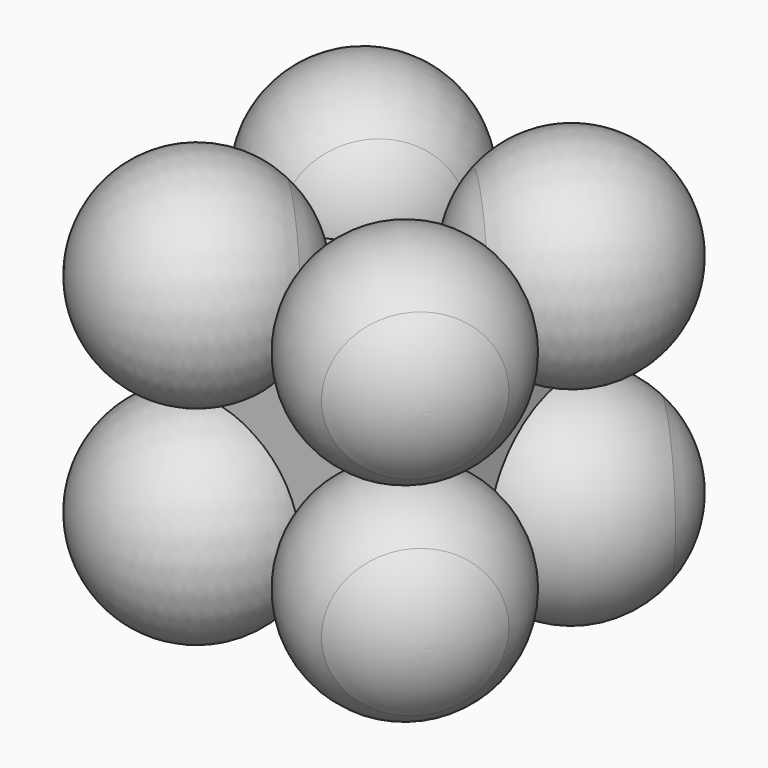
from build123d import *

# Parameters (mm, degrees)
F0_W          = 10
F0_H          = 10
F1_DEPTH      = 5
F1_DEPTH_BACK = 5


with BuildPart() as f1:
    # F0 (on Top) → F1 (new body, two sides)
    with BuildSketch(Plane.XY) as f1_sk:
        Rectangle(F0_W, F0_H)
    extrude(amount=F1_DEPTH)
    extrude(f1_sk.sketch, amount=-F1_DEPTH_BACK)


with BuildPart() as f3:
    # F2 (on face) → F3 (revolve)
    with BuildSketch(Plane.XY.offset(5)):
        with BuildLine():
            Line((5, 5), (0, 5))
            ThreePointArc((0, 5), (0.380602, 3.086583), (1.464466, 1.464466))
            Line((1.464466, 1.464466), (5, 5))
        make_face()
        with BuildLine():
            Line((5, 5), (8.535534, 8.535534))
            ThreePointArc((8.535534, 8.535534), (3.086583, 9.619398), (0, 5))
            Line((0, 5), (5, 5))
        make_face()
    revolve(axis=Axis((4.267767, 4.267767, 5), (0.707107, 0.707107, 0)))


with BuildPart() as f4:
    # F2 (on face) → F4 (revolve)
    with BuildSketch(Plane.XY.offset(5)):
        with BuildLine():
            Line((-5, 5), (0, 5))
            ThreePointArc((0, 5), (-3.086583, 9.619398), (-8.535534, 8.535534))
            Line((-8.535534, 8.535534), (-5, 5))
        make_face()
        with BuildLine():
            ThreePointArc((-1.464466, 1.464466), (-0.380602, 3.086583), (0, 5))
            Line((0, 5), (-5, 5))
            Line((-5, 5), (-1.464466, 1.464466))
        make_face()
    revolve(axis=Axis((-4.267767, 4.267767, 5), (-0.707107, 0.707107, 0)))


with BuildPart() as f5:
    # F2 (on face) → F5 (revolve)
    with BuildSketch(Plane.XY.offset(5)):
        with BuildLine():
            ThreePointArc((-1.464466, -1.464466), (-3.086583, -0.380602), (-5, 0))
            Line((-5, 0), (-5, -5))
            Line((-5, -5), (-1.464466, -1.464466))
        make_face()
        with BuildLine():
            Line((-5, -5), (-5, 0))
            ThreePointArc((-5, 0), (-9.619398, -3.086583), (-8.535534, -8.535534))
            Line((-8.535534, -8.535534), (-5, -5))
        make_face()
    revolve(axis=Axis((-4.267767, -4.267767, 5), (-0.707107, -0.707107, 0)))


with BuildPart() as f6:
    # F2 (on face) → F6 (revolve)
    with BuildSketch(Plane.XY.offset(5)):
        with BuildLine():
            Line((5, -5), (5, 0))
            ThreePointArc((5, 0), (3.086583, -0.380602), (1.464466, -1.464466))
            Line((1.464466, -1.464466), (5, -5))
        make_face()
        with BuildLine():
            ThreePointArc((10, -5), (8.535534, -1.464466), (5, 0))
            Line((5, 0), (5, -5))
            Line((5, -5), (8.535534, -8.535534))
            ThreePointArc((8.535534, -8.535534), (9.619398, -6.913417), (10, -5))
        make_face()
    revolve(axis=Axis((4.267767, -4.267767, 5), (0.707107, -0.707107, 0)))


with BuildPart() as f8:
    # F7 (on face) → F8 (revolve)
    with BuildSketch(Plane(origin=(0, 0, -5), x_dir=(1, 0, 0), z_dir=(0, 0, -1))):
        with BuildLine():
            Line((-5, 5), (-8.535534, 8.535534))
            ThreePointArc((-8.535534, 8.535534), (-9.619398, 3.086583), (-5, 0))
            Line((-5, 0), (-5, 5))
        make_face()
        with BuildLine():
            ThreePointArc((-5, 0), (-3.086583, 0.380602), (-1.464466, 1.464466))
            Line((-1.464466, 1.464466), (-5, 5))
            Line((-5, 5), (-5, 0))
        make_face()
    revolve(axis=Axis((0.176649, 0.176649, -5), (0.707107, 0.707107, 0)))


with BuildPart() as f9:
    # F7 (on face) → F9 (revolve)
    with BuildSketch(Plane(origin=(0, 0, -5), x_dir=(1, 0, 0), z_dir=(0, 0, -1))):
        with BuildLine():
            ThreePointArc((10, 5), (9.619398, 6.913417), (8.535534, 8.535534))
            Line((8.535534, 8.535534), (5, 5))
            Line((5, 5), (5, 0))
            ThreePointArc((5, 0), (8.535534, 1.464466), (10, 5))
        make_face()
        with BuildLine():
            Line((5, 5), (1.464466, 1.464466))
            ThreePointArc((1.464466, 1.464466), (3.086583, 0.380602), (5, 0))
            Line((5, 0), (5, 5))
        make_face()
    revolve(axis=Axis((-0.630085, 0.630085, -5), (0.707107, -0.707107, 0)))


with BuildPart() as f10:
    # F7 (on face) → F10 (revolve)
    with BuildSketch(Plane(origin=(0, 0, -5), x_dir=(1, 0, 0), z_dir=(0, 0, -1))):
        with BuildLine():
            Line((5, -5), (5, 0))
            ThreePointArc((5, 0), (3.086583, -0.380602), (1.464466, -1.464466))
            Line((1.464466, -1.464466), (5, -5))
        make_face()
        with BuildLine():
            ThreePointArc((10, -5), (8.535534, -1.464466), (5, 0))
            Line((5, 0), (5, -5))
            Line((5, -5), (8.535534, -8.535534))
            ThreePointArc((8.535534, -8.535534), (9.619398, -6.913417), (10, -5))
        make_face()
    revolve(axis=Axis((0.176649, 0.176649, -5), (0.707107, 0.707107, 0)))


with BuildPart() as f11:
    # F7 (on face) → F11 (revolve)
    with BuildSketch(Plane(origin=(0, 0, -5), x_dir=(1, 0, 0), z_dir=(0, 0, -1))):
        with BuildLine():
            ThreePointArc((-1.464466, -1.464466), (-3.086583, -0.380602), (-5, 0))
            Line((-5, 0), (-5, -5))
            Line((-5, -5), (-1.464466, -1.464466))
        make_face()
        with BuildLine():
            Line((-5, -5), (-5, 0))
            ThreePointArc((-5, 0), (-9.619398, -3.086583), (-8.535534, -8.535534))
            Line((-8.535534, -8.535534), (-5, -5))
        make_face()
    revolve(axis=Axis((-0.630085, 0.630085, -5), (0.707107, -0.707107, 0)))


solid = Compound([f1.part, f3.part, f4.part, f5.part, f6.part, f8.part, f9.part, f10.part, f11.part])
